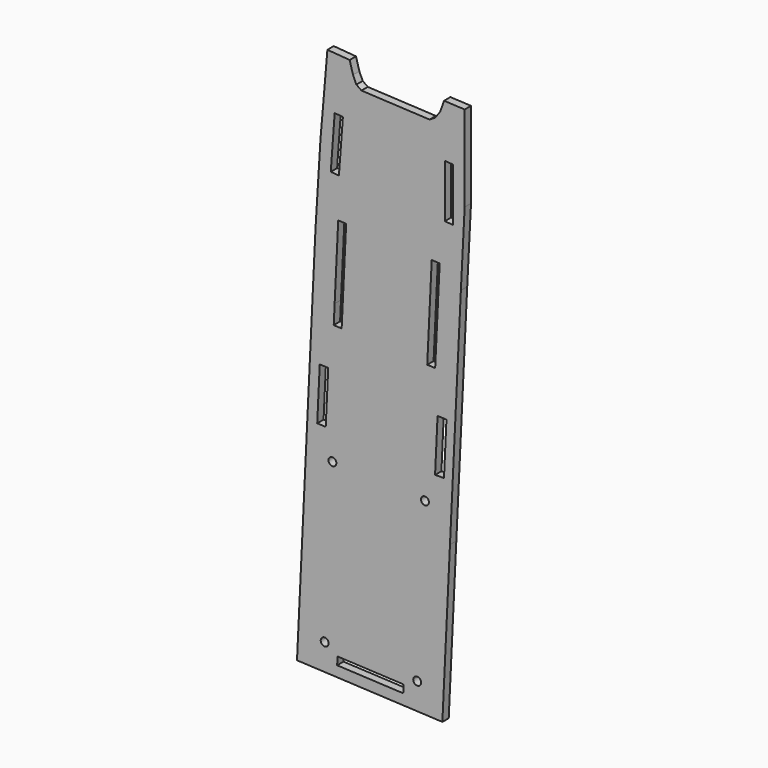
from build123d import *

# Parameters (mm, degrees)
F1_DEPTH = 3
F2_W     = 55
F2_H     = 3
F3_DEPTH = 60
F5_DEPTH = 3.001
F6_R     = 1.5
F7_DEPTH = 25


with BuildPart() as f1:
    # F0 (on Front) → F1 (new body)
    with BuildSketch(Plane.XZ):
        Polygon((9.642301, -72.468617), (5.525627, -158.370032), (60.462578, -161.002788), (64.579252, -75.101374), (66.01405, -46.877436), (66.01405, -14.442657), (58.229018, -14.069573), (56.766827, -18.181978), (54.847706, -20.834833), (52.745808, -22.111611), (27.019382, -20.834833), (25.082963, -19.47934), (23.824289, -16.671533), (22.565616, -12.120947), (14.142194, -11.443201), (11.49178, -42.476468), align=None)
        Polygon((13.504524, -137.123708), (10.295481, -136.96992), (11.250439, -117.043101), (14.459482, -117.196889), align=None, mode=Mode.SUBTRACT)
        Polygon((59.128299, -119.856104), (58.201853, -139.597923), (54.832633, -139.664747), (55.769612, -119.698487), align=None, mode=Mode.SUBTRACT)
        Polygon((18.496964, -51.870942), (15.419618, -51.640142), (16.890456, -31.622363), (19.998123, -31.855437), align=None, mode=Mode.SUBTRACT)
        Polygon((58.493998, -54.062121), (58.493998, -33.956718), (61.623972, -34.191465), (61.623972, -54.296868), align=None, mode=Mode.SUBTRACT)
    extrude(amount=F1_DEPTH)

    # F2 (on face) → F3 (join)
    with BuildSketch(Plane(origin=(-7.559553, 0, -157.742947), x_dir=(0.998854, 0, -0.047868), z_dir=(-0.047868, 0, -0.998854))):
        with Locations((40.600197, 1.5)):
            Rectangle(F2_W, F2_H)
    extrude(amount=F3_DEPTH)

    # F4 (on face) → F5 (cut, through all)
    with BuildSketch(Plane.XZ.offset(3)):
        Polygon((18.223862, -67.019004), (16.881835, -95.022686), (16.534084, -102.279096), (19.530645, -102.4227), (21.227305, -67.019004), (18.223862, -66.875069), align=None)
        Polygon((53.568468, -68.568897), (51.871808, -103.972594), (54.868369, -104.116199), (55.21612, -96.859789), (56.558147, -68.856107), (56.571911, -68.712832), align=None)
    extrude(amount=-F5_DEPTH, mode=Mode.SUBTRACT)

    # F6 (on face) → F7 (cut)
    with BuildSketch(Plane.XZ.offset(3)):
        with Locations((16.040714, -147.861324)):
            Circle(F6_R)
        with Locations((51.000592, -149.536715)):
            Circle(F6_R)
        with Locations((13.120748, -208.791397)):
            Circle(F6_R)
        with Locations((48.080626, -210.466788)):
            Circle(F6_R)
        Polygon((17.827806, -215.023861), (42.799148, -216.220568), (42.942753, -213.224008), (17.971411, -212.0273), align=None)
    extrude(amount=-F7_DEPTH, mode=Mode.SUBTRACT)


solid = f1.part
